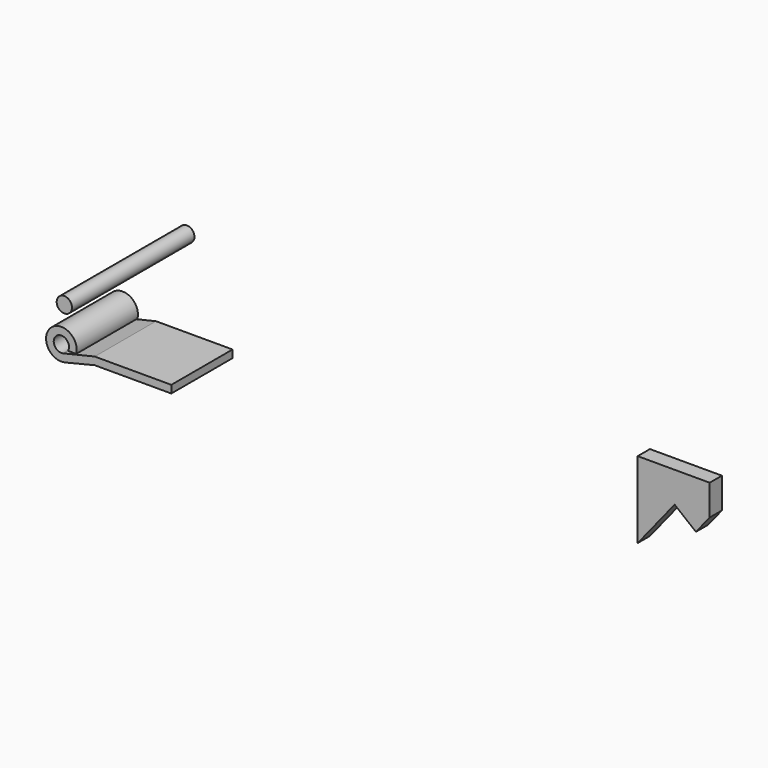
from build123d import *

# Parameters (mm, degrees)
F1_DEPTH = 12.7
F3_DEPTH = 2.54
F4_R     = 1.27
F5_DEPTH = 25.4


with BuildPart() as f1:
    # F0 (on Front) → F1 (new body)
    with BuildSketch(Plane.XZ):
        with BuildLine():
            ThreePointArc((-38.130712, -39.082584), (-39.417792, -37.058144), (-37.15207, -37.846457))
            ThreePointArc((-37.15207, -37.846457), (-37.191801, -38.161634), (-37.308506, -38.457091))
            Line((-37.308506, -38.457091), (-35.956563, -38.457091))
            ThreePointArc((-35.956563, -38.457091), (-40.21394, -36.046234), (-37.82291, -40.314778))
            Line((-37.82291, -40.314778), (-32.886269, -39.116457))
            Line((-32.886269, -39.116457), (-20.186269, -39.116457))
            Line((-20.186269, -39.116457), (-20.186269, -37.846457))
            Line((-20.186269, -37.846457), (-32.886269, -37.846457))
            Line((-32.886269, -37.846457), (-38.130712, -39.082584))
        make_face()
    extrude(amount=F1_DEPTH)


with BuildPart() as f3:
    # F2 (on Front) → F3 (new body)
    with BuildSketch(Plane.XZ):
        Polygon((60.995936, -34.952635), (60.995936, -29.872635), (49.054779, -29.872635), (49.054779, -42.572635), (55.182708, -34.952635), (58.71289, -37.791572), align=None)
    extrude(amount=F3_DEPTH)


with BuildPart() as f5:
    # F4 (on Front) → F5 (new body)
    with BuildSketch(Plane.XZ):
        with Locations((-27.773255, -23.456169)):
            Circle(F4_R)
    extrude(amount=F5_DEPTH)


solid = Compound([f1.part, f3.part, f5.part])
